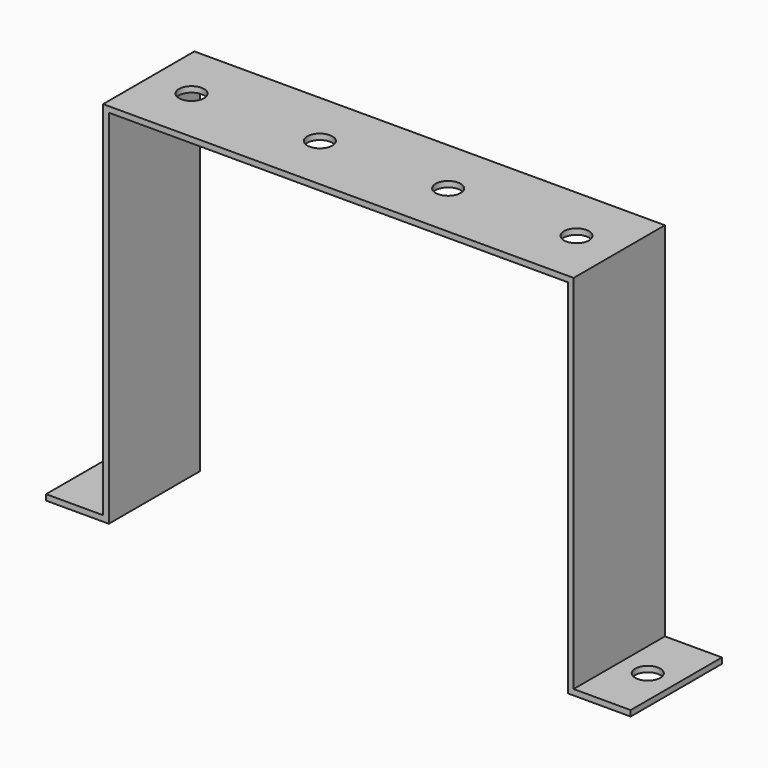
from build123d import *

# Parameters (mm, degrees)
F1_DEPTH   = 20
F5_D       = 8.8
F5_ON_F2_D = 8.8
F5_ON_F4_D = 8.8


with BuildPart() as f1:
    # F0 (on Front) → F1 (new body, symmetric)
    with BuildSketch(Plane.XZ):
        Polygon((74.3795982003, 82.5967788231), (-90.6204017997, 82.5967788231), (-90.6204017997, -44.3232211769), (-110.6204017997, -44.3232211769), (-110.6204017997, -46.3232211769), (-88.6204017997, -46.3232211769), (-88.6204017997, 80.5967788231), (-8.1204017997, 80.5967788231), (72.3795982003, 80.5967788231), (72.3795982003, -46.3232211769), (94.3795982003, -46.3232211769), (94.3795982003, -44.3232211769), (74.3795982003, -44.3232211769), align=None)
    extrude(amount=F1_DEPTH, both=True)

    # F5 (through all)
    with Locations(Plane.XY.offset(82.5967788231)):
        with Locations((-75.6204017997, 0), (-30.6204017997, 0), (14.3795982003, 0), (59.3795982003, 0)):
            Hole(F5_D / 2)

    # F5 on F2 (through all)
    with Locations(Plane.XY.offset(-44.3232211769)):
        with Locations((-100.6204017997, 0)):
            Hole(F5_ON_F2_D / 2)

    # F5 on F4 (through all)
    with Locations(Plane.XY.offset(-44.3232211769)):
        with Locations((84.3795982003, 0)):
            Hole(F5_ON_F4_D / 2)


solid = f1.part
